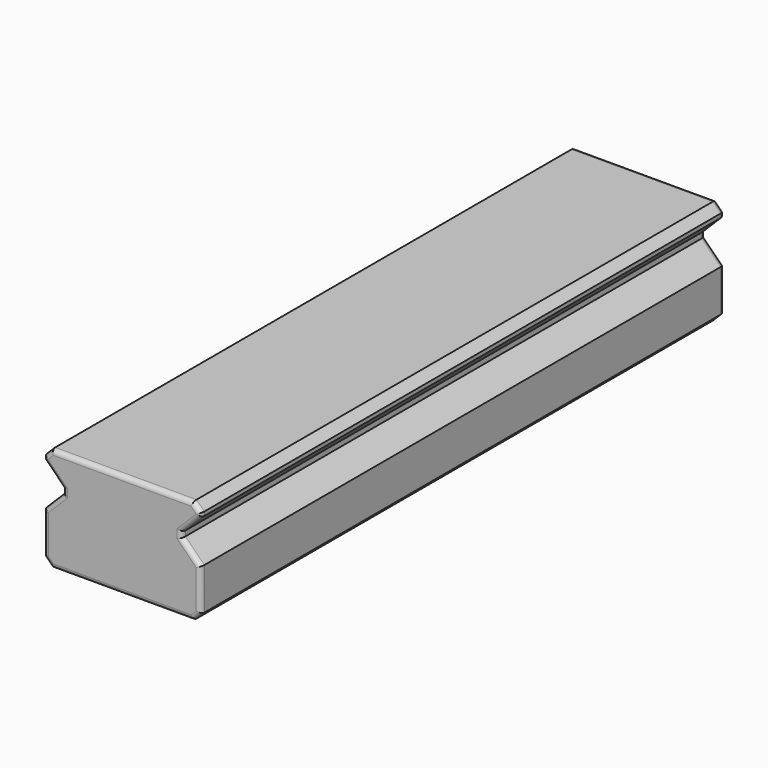
from build123d import *

# Parameters (mm, degrees)
PAD_DEPTH = 50
FILLET_R  = 0.35


with BuildPart() as part:
    # Sketch → Pad (new body)
    with BuildSketch(Plane.XZ):
        Polygon((-5.4, 0), (5.4, 0), (6, 0.6), (6, 3.8), (4.55, 5.25), (4.55, 5.65), (6, 7.1), (6, 7.4), (5.4, 8), (-5.4, 8), (-6, 7.4), (-6, 7.1), (-4.55, 5.65), (-4.55, 5.25), (-6, 3.8), (-6, 0.6), align=None)
    extrude(amount=PAD_DEPTH)

    # Fillet
    fillet_edges = [part.edges().sort_by_distance(p)[0] for p in [
        (0, 0, 0),
        (5.7, 0, 0.3),
        (6, 0, 2.2),
        (5.275, 0, 4.525),
        (4.55, 0, 5.45),
        (5.275, 0, 6.375),
        (6, 0, 7.25),
        (5.7, 0, 7.7),
        (0, 0, 8),
        (-5.7, 0, 7.7),
        (-6, 0, 7.25),
        (-5.275, 0, 6.375),
        (-4.55, 0, 5.45),
        (-5.275, 0, 4.525),
        (-6, 0, 2.2),
        (-5.7, 0, 0.3),
        (0, -50, 0),
        (5.7, -50, 0.3),
        (6, -50, 2.2),
        (5.275, -50, 4.525),
        (4.55, -50, 5.45),
        (5.275, -50, 6.375),
        (6, -50, 7.25),
        (5.7, -50, 7.7),
        (0, -50, 8),
        (-5.7, -50, 7.7),
        (-6, -50, 7.25),
        (-5.275, -50, 6.375),
        (-4.55, -50, 5.45),
        (-5.275, -50, 4.525),
        (-6, -50, 2.2),
        (-5.7, -50, 0.3),
    ]]
    fillet(fillet_edges, radius=FILLET_R)


solid = part.part
